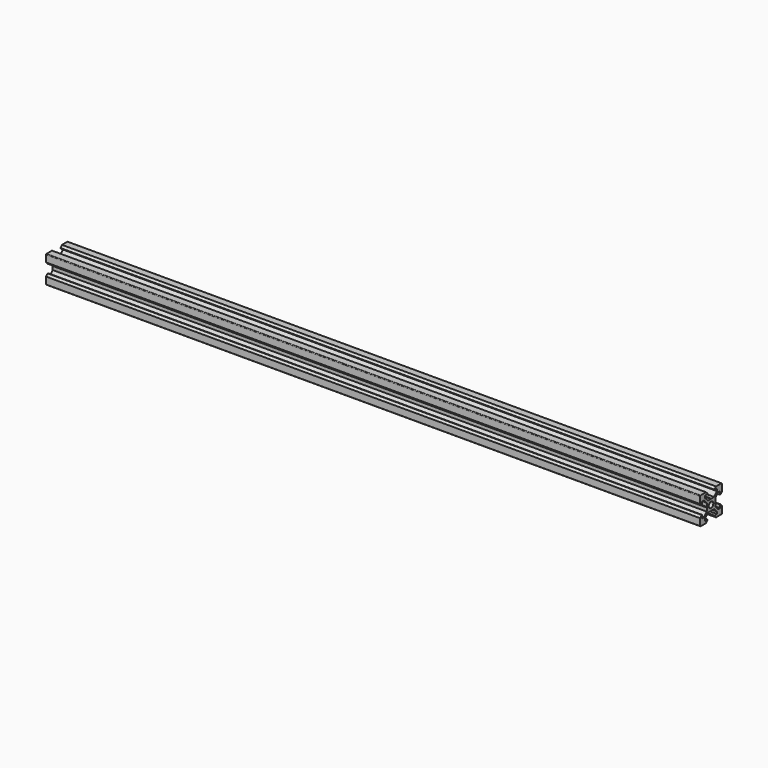
from build123d import *

# Parameters (mm, degrees)
F0_R     = 2.1
F1_DEPTH = 399.8
F2_DEPTH = 480


with BuildPart() as f1:
    # F0 (on Right) → F1 (new body)
    with BuildSketch(Plane.YZ):
        with BuildLine():
            Line((-10, -4.58), (-10, -9.5))
            ThreePointArc((-10, -9.5), (-9.853553, -9.853553), (-9.5, -10))
            Line((-9.5, -10), (-4.58, -10))
            Line((-4.58, -10), (-3.125, -8.545))
            Line((-3.125, -8.545), (-3.125, -8.2))
            Line((-3.125, -8.2), (-5.5, -8.2))
            Line((-5.5, -8.2), (-5.5, -6.56066))
            Line((-5.5, -6.56066), (-2.83934, -3.9))
            Line((-2.83934, -3.9), (-0.21, -3.9))
            Line((-0.21, -3.9), (0, -3.69))
            Line((0, -3.69), (0.21, -3.9))
            Line((0.21, -3.9), (2.83934, -3.9))
            Line((2.83934, -3.9), (5.5, -6.56066))
            Line((5.5, -6.56066), (5.5, -8.2))
            Line((5.5, -8.2), (3.125, -8.2))
            Line((3.125, -8.2), (3.125, -8.545))
            Line((3.125, -8.545), (4.58, -10))
            Line((4.58, -10), (9.5, -10))
            ThreePointArc((9.5, -10), (9.853553, -9.853553), (10, -9.5))
            Line((10, -9.5), (10, -4.58))
            Line((10, -4.58), (8.545, -3.125))
            Line((8.545, -3.125), (8.2, -3.125))
            Line((8.2, -3.125), (8.2, -5.5))
            Line((8.2, -5.5), (6.56066, -5.5))
            Line((6.56066, -5.5), (3.9, -2.83934))
            Line((3.9, -2.83934), (3.9, -0.21))
            Line((3.9, -0.21), (3.69, 0))
            Line((3.69, 0), (3.9, 0.21))
            Line((3.9, 0.21), (3.9, 2.83934))
            Line((3.9, 2.83934), (6.56066, 5.5))
            Line((6.56066, 5.5), (8.2, 5.5))
            Line((8.2, 5.5), (8.2, 3.125))
            Line((8.2, 3.125), (8.545, 3.125))
            Line((8.545, 3.125), (10, 4.58))
            Line((10, 4.58), (10, 9.5))
            ThreePointArc((10, 9.5), (9.853553, 9.853553), (9.5, 10))
            Line((9.5, 10), (4.58, 10))
            Line((4.58, 10), (3.125, 8.545))
            Line((3.125, 8.545), (3.125, 8.2))
            Line((3.125, 8.2), (5.5, 8.2))
            Line((5.5, 8.2), (5.5, 6.56066))
            Line((5.5, 6.56066), (2.83934, 3.9))
            Line((2.83934, 3.9), (0.21, 3.9))
            Line((0.21, 3.9), (0, 3.69))
            Line((0, 3.69), (-0.21, 3.9))
            Line((-0.21, 3.9), (-2.83934, 3.9))
            Line((-2.83934, 3.9), (-5.5, 6.56066))
            Line((-5.5, 6.56066), (-5.5, 8.2))
            Line((-5.5, 8.2), (-3.125, 8.2))
            Line((-3.125, 8.2), (-3.125, 8.545))
            Line((-3.125, 8.545), (-4.58, 10))
            Line((-4.58, 10), (-9.5, 10))
            ThreePointArc((-9.5, 10), (-9.853553, 9.853553), (-10, 9.5))
            Line((-10, 9.5), (-10, 4.58))
            Line((-10, 4.58), (-8.545, 3.125))
            Line((-8.545, 3.125), (-8.2, 3.125))
            Line((-8.2, 3.125), (-8.2, 5.5))
            Line((-8.2, 5.5), (-6.56066, 5.5))
            Line((-6.56066, 5.5), (-3.9, 2.83934))
            Line((-3.9, 2.83934), (-3.9, 0.21))
            Line((-3.9, 0.21), (-3.69, 0))
            Line((-3.69, 0), (-3.9, -0.21))
            Line((-3.9, -0.21), (-3.9, -2.83934))
            Line((-3.9, -2.83934), (-6.56066, -5.5))
            Line((-6.56066, -5.5), (-8.2, -5.5))
            Line((-8.2, -5.5), (-8.2, -3.125))
            Line((-8.2, -3.125), (-8.545, -3.125))
            Line((-8.545, -3.125), (-10, -4.58))
        make_face()
        Circle(F0_R, mode=Mode.SUBTRACT)
    extrude(amount=F1_DEPTH)


with BuildPart() as f2:
    # F0 (on Right) → F2 (new body)
    with BuildSketch(Plane.YZ):
        with BuildLine():
            Line((-10, -4.58), (-10, -9.5))
            ThreePointArc((-10, -9.5), (-9.853553, -9.853553), (-9.5, -10))
            Line((-9.5, -10), (-4.58, -10))
            Line((-4.58, -10), (-3.125, -8.545))
            Line((-3.125, -8.545), (-3.125, -8.2))
            Line((-3.125, -8.2), (-5.5, -8.2))
            Line((-5.5, -8.2), (-5.5, -6.56066))
            Line((-5.5, -6.56066), (-2.83934, -3.9))
            Line((-2.83934, -3.9), (-0.21, -3.9))
            Line((-0.21, -3.9), (0, -3.69))
            Line((0, -3.69), (0.21, -3.9))
            Line((0.21, -3.9), (2.83934, -3.9))
            Line((2.83934, -3.9), (5.5, -6.56066))
            Line((5.5, -6.56066), (5.5, -8.2))
            Line((5.5, -8.2), (3.125, -8.2))
            Line((3.125, -8.2), (3.125, -8.545))
            Line((3.125, -8.545), (4.58, -10))
            Line((4.58, -10), (9.5, -10))
            ThreePointArc((9.5, -10), (9.853553, -9.853553), (10, -9.5))
            Line((10, -9.5), (10, -4.58))
            Line((10, -4.58), (8.545, -3.125))
            Line((8.545, -3.125), (8.2, -3.125))
            Line((8.2, -3.125), (8.2, -5.5))
            Line((8.2, -5.5), (6.56066, -5.5))
            Line((6.56066, -5.5), (3.9, -2.83934))
            Line((3.9, -2.83934), (3.9, -0.21))
            Line((3.9, -0.21), (3.69, 0))
            Line((3.69, 0), (3.9, 0.21))
            Line((3.9, 0.21), (3.9, 2.83934))
            Line((3.9, 2.83934), (6.56066, 5.5))
            Line((6.56066, 5.5), (8.2, 5.5))
            Line((8.2, 5.5), (8.2, 3.125))
            Line((8.2, 3.125), (8.545, 3.125))
            Line((8.545, 3.125), (10, 4.58))
            Line((10, 4.58), (10, 9.5))
            ThreePointArc((10, 9.5), (9.853553, 9.853553), (9.5, 10))
            Line((9.5, 10), (4.58, 10))
            Line((4.58, 10), (3.125, 8.545))
            Line((3.125, 8.545), (3.125, 8.2))
            Line((3.125, 8.2), (5.5, 8.2))
            Line((5.5, 8.2), (5.5, 6.56066))
            Line((5.5, 6.56066), (2.83934, 3.9))
            Line((2.83934, 3.9), (0.21, 3.9))
            Line((0.21, 3.9), (0, 3.69))
            Line((0, 3.69), (-0.21, 3.9))
            Line((-0.21, 3.9), (-2.83934, 3.9))
            Line((-2.83934, 3.9), (-5.5, 6.56066))
            Line((-5.5, 6.56066), (-5.5, 8.2))
            Line((-5.5, 8.2), (-3.125, 8.2))
            Line((-3.125, 8.2), (-3.125, 8.545))
            Line((-3.125, 8.545), (-4.58, 10))
            Line((-4.58, 10), (-9.5, 10))
            ThreePointArc((-9.5, 10), (-9.853553, 9.853553), (-10, 9.5))
            Line((-10, 9.5), (-10, 4.58))
            Line((-10, 4.58), (-8.545, 3.125))
            Line((-8.545, 3.125), (-8.2, 3.125))
            Line((-8.2, 3.125), (-8.2, 5.5))
            Line((-8.2, 5.5), (-6.56066, 5.5))
            Line((-6.56066, 5.5), (-3.9, 2.83934))
            Line((-3.9, 2.83934), (-3.9, 0.21))
            Line((-3.9, 0.21), (-3.69, 0))
            Line((-3.69, 0), (-3.9, -0.21))
            Line((-3.9, -0.21), (-3.9, -2.83934))
            Line((-3.9, -2.83934), (-6.56066, -5.5))
            Line((-6.56066, -5.5), (-8.2, -5.5))
            Line((-8.2, -5.5), (-8.2, -3.125))
            Line((-8.2, -3.125), (-8.545, -3.125))
            Line((-8.545, -3.125), (-10, -4.58))
        make_face()
        Circle(F0_R, mode=Mode.SUBTRACT)
    extrude(amount=F2_DEPTH)


solid = Compound([f1.part, f2.part])
